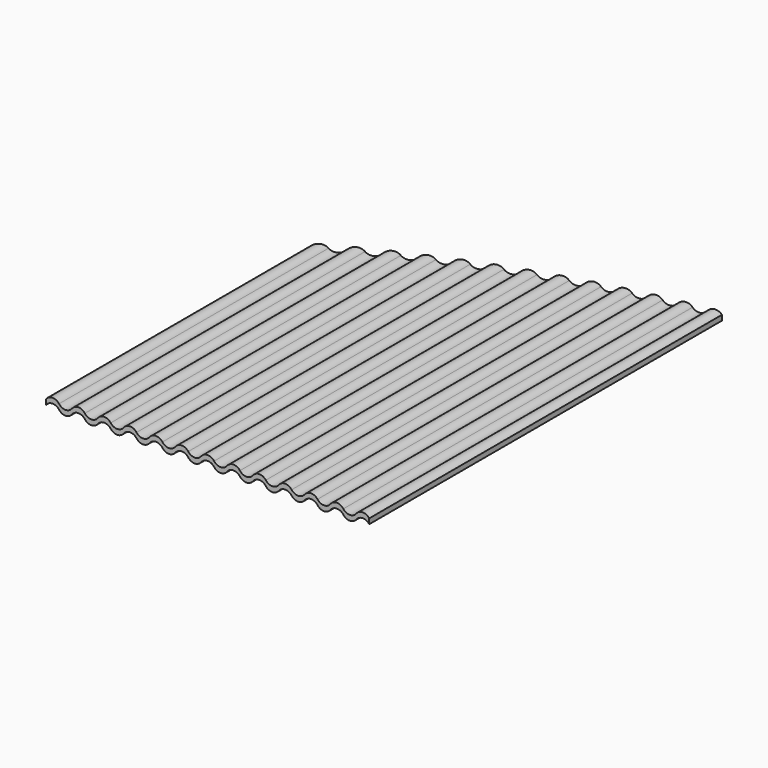
from build123d import *

# Parameters (mm, degrees)
F1_DEPTH = 70
F3_START = -25
F2_R     = 150
F3_DEPTH = 50


with BuildPart() as f1:
    # F0 (on Front) → F1 (new body)
    with BuildSketch(Plane.XZ):
        with BuildLine():
            ThreePointArc((-21, -0.4), (-20, 0.1), (-19, -0.4))
            ThreePointArc((-19, -0.4), (-18, -0.9), (-17, -0.4))
            ThreePointArc((-17, -0.4), (-16, 0.1), (-15, -0.4))
            ThreePointArc((-15, -0.4), (-14, -0.9), (-13, -0.4))
            ThreePointArc((-13, -0.4), (-12, 0.1), (-11, -0.4))
            ThreePointArc((-11, -0.4), (-10, -0.9), (-9, -0.4))
            ThreePointArc((-9, -0.4), (-8, 0.1), (-7, -0.4))
            ThreePointArc((-7, -0.4), (-6, -0.9), (-5, -0.4))
            ThreePointArc((-5, -0.4), (-4, 0.1), (-3, -0.4))
            ThreePointArc((-3, -0.4), (-2, -0.9), (-1, -0.4))
            ThreePointArc((-1, -0.4), (0, 0.1), (1, -0.4))
            ThreePointArc((1, -0.4), (2, -0.9), (3, -0.4))
            ThreePointArc((3, -0.4), (4, 0.1), (5, -0.4))
            ThreePointArc((5, -0.4), (6, -0.9), (7, -0.4))
            ThreePointArc((7, -0.4), (8, 0.1), (9, -0.4))
            ThreePointArc((9, -0.4), (10, -0.9), (11, -0.4))
            ThreePointArc((11, -0.4), (12, 0.1), (13, -0.4))
            ThreePointArc((13, -0.4), (14, -0.9), (15, -0.4))
            ThreePointArc((15, -0.4), (16, 0.1), (17, -0.4))
            ThreePointArc((17, -0.4), (18, -0.9), (19, -0.4))
            ThreePointArc((19, -0.4), (20, 0.1), (21, -0.4))
            ThreePointArc((21, -0.4), (22, -0.9), (23, -0.4))
            ThreePointArc((23, -0.4), (24, 0.1), (25, -0.4))
            Line((25, -0.4), (25, 0.4))
            ThreePointArc((25, 0.4), (24, 0.9), (23, 0.4))
            ThreePointArc((23, 0.4), (22, -0.1), (21, 0.4))
            ThreePointArc((21, 0.4), (20, 0.9), (19, 0.4))
            ThreePointArc((19, 0.4), (18, -0.1), (17, 0.4))
            ThreePointArc((17, 0.4), (16, 0.9), (15, 0.4))
            ThreePointArc((15, 0.4), (14, -0.1), (13, 0.4))
            ThreePointArc((13, 0.4), (12, 0.9), (11, 0.4))
            ThreePointArc((11, 0.4), (10, -0.1), (9, 0.4))
            ThreePointArc((9, 0.4), (8, 0.9), (7, 0.4))
            ThreePointArc((7, 0.4), (6, -0.1), (5, 0.4))
            ThreePointArc((5, 0.4), (4, 0.9), (3, 0.4))
            ThreePointArc((3, 0.4), (2, -0.1), (1, 0.4))
            ThreePointArc((1, 0.4), (0, 0.9), (-1, 0.4))
            ThreePointArc((-1, 0.4), (-2, -0.1), (-3, 0.4))
            ThreePointArc((-3, 0.4), (-4, 0.9), (-5, 0.4))
            ThreePointArc((-5, 0.4), (-6, -0.1), (-7, 0.4))
            ThreePointArc((-7, 0.4), (-8, 0.9), (-9, 0.4))
            ThreePointArc((-9, 0.4), (-10, -0.1), (-11, 0.4))
            ThreePointArc((-11, 0.4), (-12, 0.9), (-13, 0.4))
            ThreePointArc((-13, 0.4), (-14, -0.1), (-15, 0.4))
            ThreePointArc((-15, 0.4), (-16, 0.9), (-17, 0.4))
            ThreePointArc((-17, 0.4), (-18, -0.1), (-19, 0.4))
            ThreePointArc((-19, 0.4), (-20, 0.9), (-21, 0.4))
            ThreePointArc((-21, 0.4), (-22, -0.1), (-23, 0.4))
            ThreePointArc((-23, 0.4), (-24, 0.9), (-25, 0.4))
            Line((-25, 0.4), (-25, -0.4))
            ThreePointArc((-25, -0.4), (-24, 0.1), (-23, -0.4))
            ThreePointArc((-23, -0.4), (-22, -0.9), (-21, -0.4))
        make_face()
    extrude(amount=F1_DEPTH)

    # F2 (on Top) → F3 (intersect)
    with BuildSketch(Plane.XY.offset(F3_START)):
        with Locations((48, -150)):
            Circle(F2_R)
    extrude(amount=F3_DEPTH, mode=Mode.INTERSECT)


solid = f1.part
